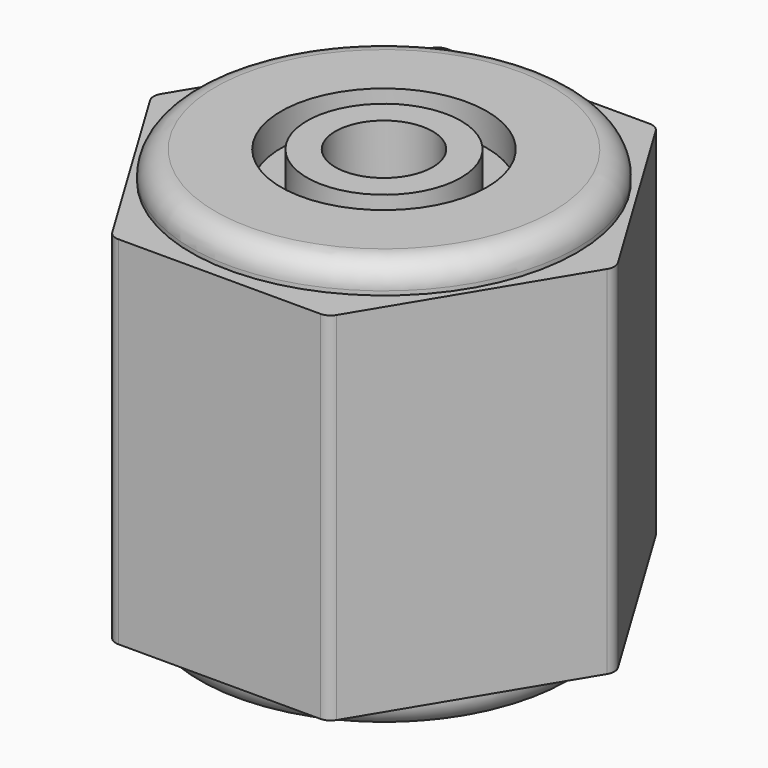
from build123d import *

# Parameters (mm, degrees)
F1_DEPTH  = 22
F2_R      = 11.9
F3_DEPTH  = 1.75
F4_R      = 11.9
F5_DEPTH  = 1.75
F6_R      = 6.35
F6_R_2    = 4.75
F8_DEPTH  = 2
F7_R      = 6.35
F7_R_2    = 4.75
F9_DEPTH  = 2
F7_R_3    = 3
F10_DEPTH = 10
F6_R_3    = 3
F11_DEPTH = 10
F12_R     = 1.5
F13_R     = 0.8


with BuildPart() as f1:
    # F0 (on Top) → F1 (new body)
    with BuildSketch(Plane.XY):
        Polygon((6.680756, -12.7), (14.35, 0), (6.680756, 12.7), (-6.680756, 12.7), (-14.35, 0), (-6.680756, -12.7), align=None)
    extrude(amount=F1_DEPTH)

    # F2 (on face) → F3 (join)
    with BuildSketch(Plane.XY.offset(22)):
        Circle(F2_R)
    extrude(amount=F3_DEPTH)

    # F4 (on face) → F5 (join)
    with BuildSketch(Plane(origin=(0, 0, 0), x_dir=(1, 0, 0), z_dir=(0, 0, -1))):
        Circle(F4_R)
    extrude(amount=F5_DEPTH)

    # F6 (on face) → F8 (cut)
    with BuildSketch(Plane.XY.offset(23.75)):
        Circle(F6_R)
        Circle(F6_R_2, mode=Mode.SUBTRACT)
    extrude(amount=-F8_DEPTH, mode=Mode.SUBTRACT)

    # F7 (on face) → F9 (cut)
    with BuildSketch(Plane(origin=(0, 0, -1.75), x_dir=(1, 0, 0), z_dir=(0, 0, -1))):
        Circle(F7_R)
        Circle(F7_R_2, mode=Mode.SUBTRACT)
    extrude(amount=-F9_DEPTH, mode=Mode.SUBTRACT)

    # F7 (on face) → F10 (cut)
    with BuildSketch(Plane(origin=(0, 0, -1.75), x_dir=(1, 0, 0), z_dir=(0, 0, -1))):
        Circle(F7_R_3)
    extrude(amount=-F10_DEPTH, mode=Mode.SUBTRACT)

    # F6 (on face) → F11 (cut)
    with BuildSketch(Plane.XY.offset(23.75)):
        Circle(F6_R_3)
    extrude(amount=-F11_DEPTH, mode=Mode.SUBTRACT)

    # F12
    f12_edges = [f1.edges().sort_by_distance(p)[0] for p in [
        (-11.9, 0, 23.75),
        (-11.9, 0, -1.75),
    ]]
    fillet(f12_edges, radius=F12_R)

    # F13
    f13_edges = [f1.edges().sort_by_distance(p)[0] for p in [
        (-6.680756, 12.7, 11),
        (6.680756, 12.7, 11),
        (14.35, 0, 11),
        (6.680756, -12.7, 11),
        (-6.680756, -12.7, 11),
        (-14.35, 0, 11),
    ]]
    fillet(f13_edges, radius=F13_R)


solid = f1.part
